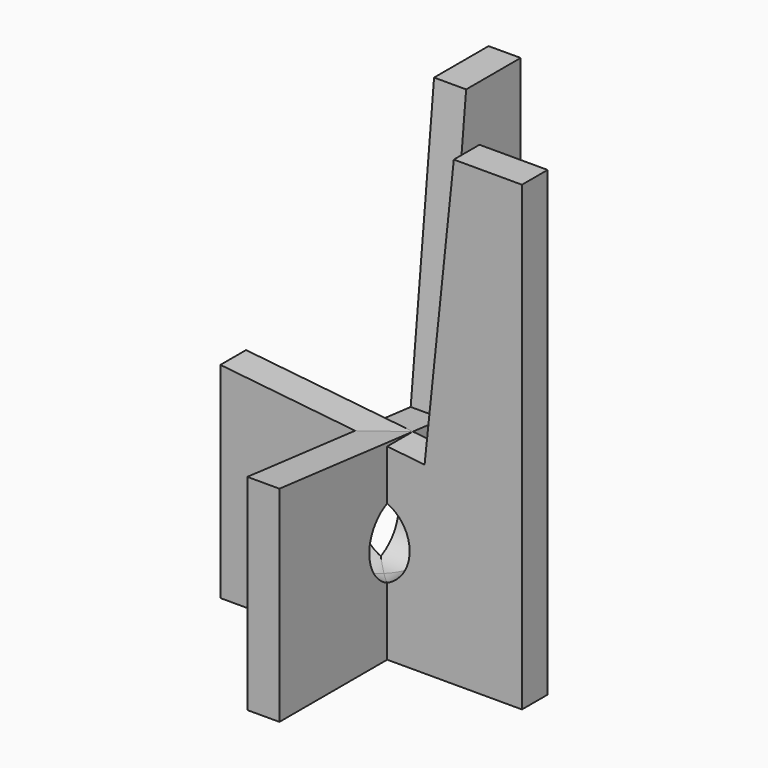
from build123d import *

# Parameters (mm, degrees)
F1_DEPTH = 63.5
F4_DEPTH = 609.6
F6_ANGLE = 90


with BuildPart() as f1:
    # F0 (on Front) → F1 (new body)
    with BuildSketch(Plane.XZ):
        Polygon((0, 406.4), (0, 0), (298.45, 0), (596.9, 0), (596.9, 203.2), (596.9, 914.4), (462.0315163296, 914.4), (404.1736982777, 363.919632528), align=None)
        with BuildLine():
            ThreePointArc((374.65, 203.2), (352.3315367264, 149.3184632736), (298.45, 127))
            ThreePointArc((298.45, 127), (244.5684632736, 257.0815367264), (374.65, 203.2))
        make_face(mode=Mode.SUBTRACT)
    extrude(amount=F1_DEPTH)


with BuildPart() as f2_1:
    # F2: copy of F1
    add(f1.part)


with BuildPart() as f4:
    # F3 (on face) → F4 (new body)
    with BuildSketch(Plane(origin=(0, 0, 0), x_dir=(1, 0, 0), z_dir=(0, 0, -1))):
        with BuildLine():
            Line((298.45, 31.75), (298.45, 0))
            ThreePointArc((298.45, 0), (320.9006403027, 9.2993596973), (330.2, 31.75))
            ThreePointArc((330.2, 31.75), (320.9006403027, 54.2006403027), (298.45, 63.5))
            Line((298.45, 63.5), (298.45, 31.75))
        make_face()
    extrude(amount=-F4_DEPTH)


with BuildPart() as f1_1:
    # F6: moved
    add(f1.part.rotate(Axis((298.45, -31.75, 304.8), (0, 0, 1)), F6_ANGLE))


solid = Compound([f2_1.part, f1_1.part])
